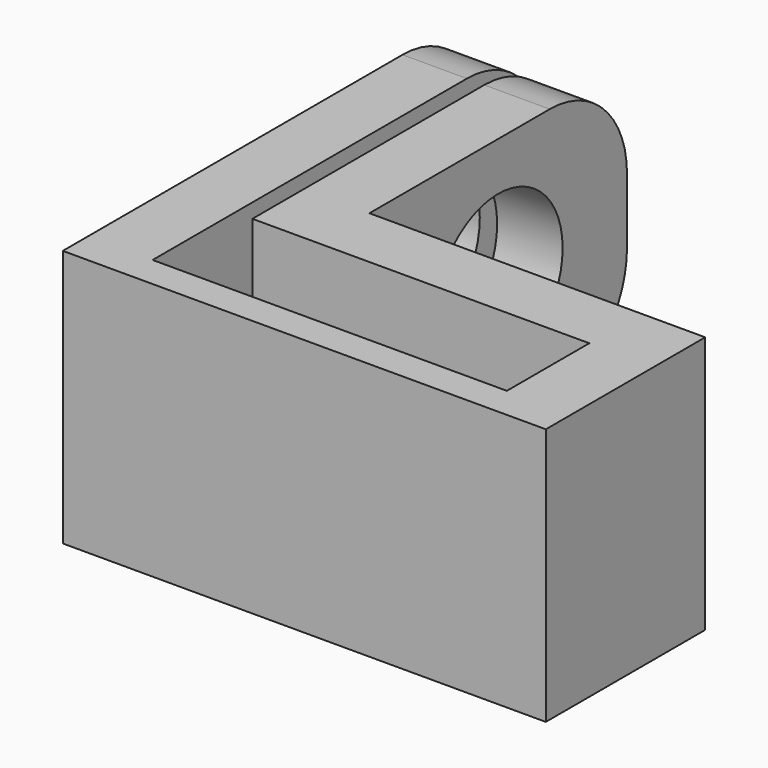
from build123d import *

# Parameters (mm, degrees)
F1_DEPTH = 8
F3_R     = 3
F2_R     = 2.5
F4_DEPTH = 4.572962


with BuildPart() as f1:
    # F0 (on Top) → F1 (new body)
    with BuildSketch(Plane.XY):
        Polygon((0, 0), (0, 15.2), (-2, 15.2), (-2, -0.986916), (13, -0.986916), (13, 5.2), (2.571962, 5.2), (2.571962, 15.2), (0.571962, 15.2), (0.538318, 15.2), (0.538318, 3.2), (11, 3.2), (11, 0), align=None)
    extrude(amount=-F1_DEPTH)

    # F3
    f3_edges = [f1.edges().sort_by_distance(p)[0] for p in [
        (1.55514, 15.2, 0),
        (-1, 15.2, 0),
        (-1, 15.2, -8),
        (1.55514, 15.2, -8),
    ]]
    fillet(f3_edges, radius=F3_R)

    # F2 (on face) → F4 (cut, through all)
    with BuildSketch(Plane.YZ.offset(2.571962)):
        with Locations((10.2, -4)):
            Circle(F2_R)
    extrude(amount=-F4_DEPTH, mode=Mode.SUBTRACT)


solid = f1.part
